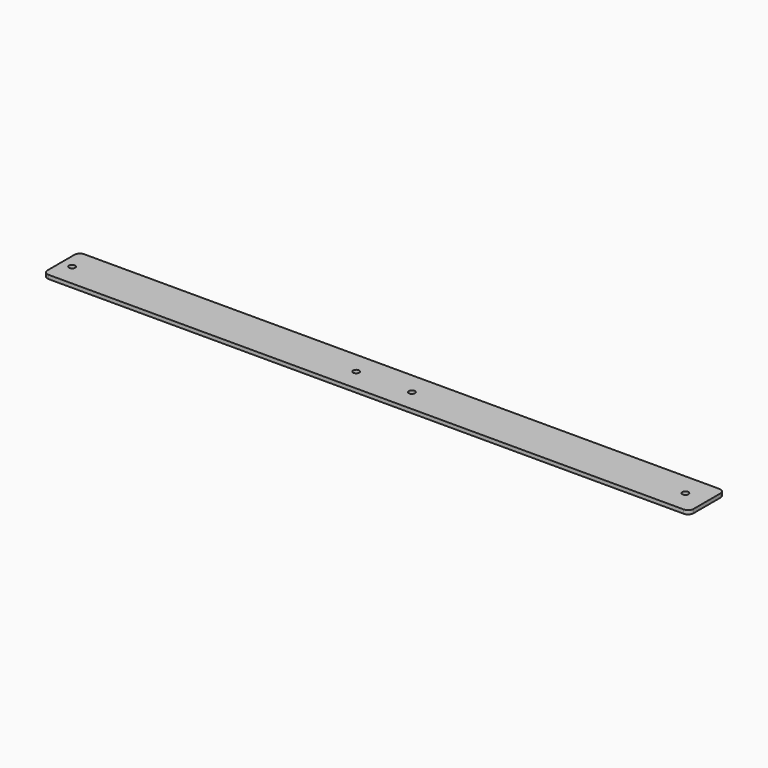
from build123d import *

# Parameters (mm, degrees)
F0_W     = 580
F0_H     = 40
F1_DEPTH = 3.42
F2_R     = 5
F4_D     = 5.5


with BuildPart() as f1:
    # F0 (on Top) → F1 (new body)
    with BuildSketch(Plane.XY):
        Rectangle(F0_W, F0_H)
    extrude(amount=F1_DEPTH)

    # F2
    f2_edges = [f1.edges().sort_by_distance(p)[0] for p in [
        (-290, 20, 1.71),
        (-290, -20, 1.71),
        (290, 20, 1.71),
        (290, -20, 1.71),
    ]]
    fillet(f2_edges, radius=F2_R)

    # F4 (through all)
    with Locations(Plane.XY.offset(3.42)):
        with Locations((-280, 0), (-25, 0), (25, 0), (270.6087231636, 0)):
            Hole(F4_D / 2)


solid = f1.part
